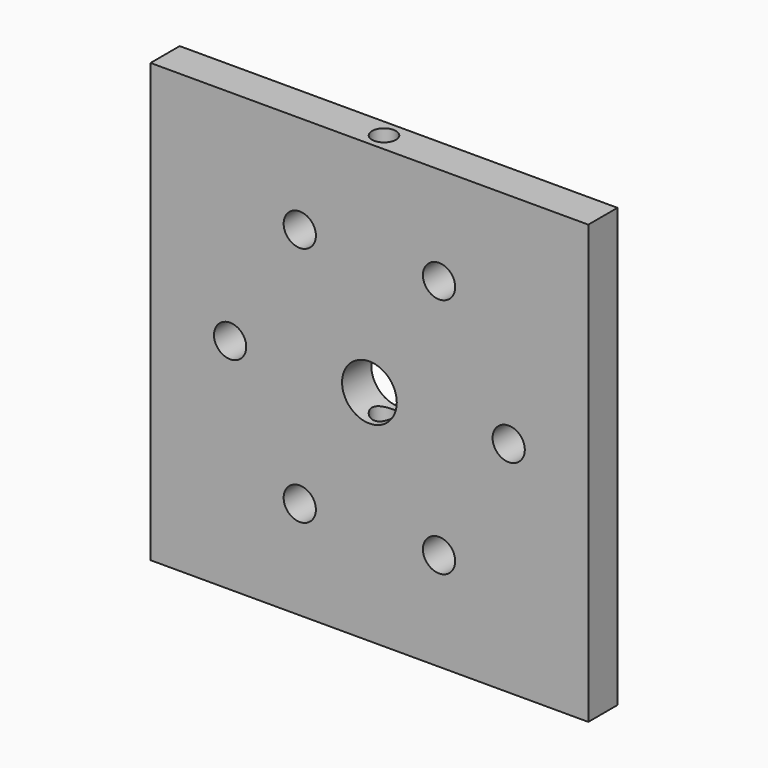
from build123d import *

# Parameters (mm, degrees)
F0_W     = 76.2
F0_H     = 76.2
F0_R     = 2.8067
F0_R_2   = 4.7625
F1_DEPTH = 6.35
F2_R     = 2.0828
F3_DEPTH = 76.201


with BuildPart() as f1:
    # F0 (on Front) → F1 (new body)
    with BuildSketch(Plane.XZ):
        Rectangle(F0_W, F0_H)
        with Locations((-12.12215, -20.99618)):
            Circle(F0_R, mode=Mode.SUBTRACT)
        with Locations((12.12215, -20.99618)):
            Circle(F0_R, mode=Mode.SUBTRACT)
        with Locations((-24.2443, 0)):
            Circle(F0_R, mode=Mode.SUBTRACT)
        with Locations((-12.12215, 20.99618)):
            Circle(F0_R, mode=Mode.SUBTRACT)
        Circle(F0_R_2, mode=Mode.SUBTRACT)
        with Locations((24.2443, 0)):
            Circle(F0_R, mode=Mode.SUBTRACT)
        with Locations((12.12215, 20.99618)):
            Circle(F0_R, mode=Mode.SUBTRACT)
    extrude(amount=F1_DEPTH)

    # F2 (on face) → F3 (cut, through all)
    with BuildSketch(Plane.XY.offset(38.1)):
        with Locations((0, -3.175)):
            Circle(F2_R)
    extrude(amount=-F3_DEPTH, mode=Mode.SUBTRACT)


solid = f1.part
